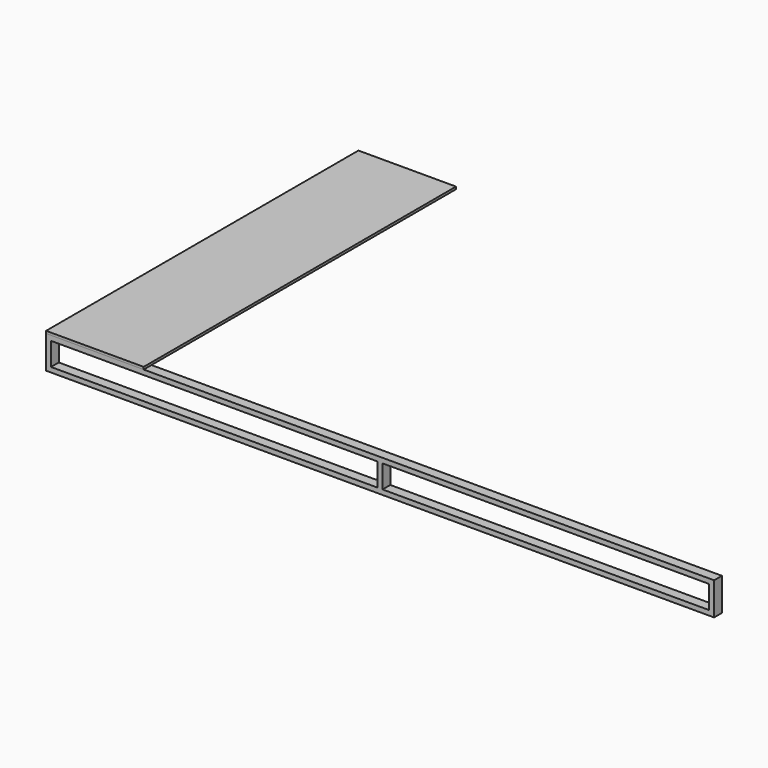
from build123d import *

# Parameters (mm, degrees)
F0_W     = 45
F0_H     = 212
F1_DEPTH = 90
F2_W     = 900
F2_H     = 3600
F3_DEPTH = 22


with BuildPart() as f1:
    # F0 (on Front) → F1 (new body)
    with BuildSketch(Plane.XZ):
        Polygon((0, 302), (0, 257), (45, 257), (3057.5, 257), (3102.5, 257), (6115, 257), (6160, 257), (6160, 302), align=None)
        Polygon((0, 45), (0, 0), (6160, 0), (6160, 45), (6115, 45), (3102.5, 45), (3057.5, 45), (45, 45), align=None)
        with Locations((22.5, 151)):
            Rectangle(F0_W, F0_H)
        with Locations((3080, 151)):
            Rectangle(F0_W, F0_H)
        with Locations((6137.5, 151)):
            Rectangle(F0_W, F0_H)
    extrude(amount=F1_DEPTH)


with BuildPart() as f3:
    # F2 (on face) → F3 (new body)
    with BuildSketch(Plane.XY.offset(302)):
        with Locations((450, 1710)):
            Rectangle(F2_W, F2_H)
    extrude(amount=F3_DEPTH)


solid = Compound([f1.part, f3.part])
